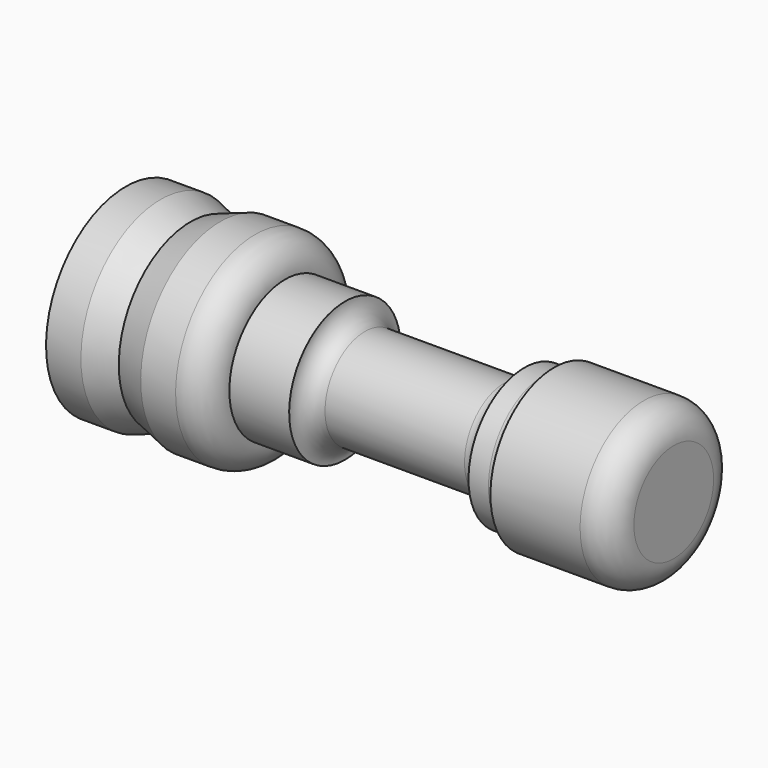
from build123d import *


with BuildPart() as f1:
    # F0 (on Front) → F1 (revolve)
    with BuildSketch(Plane.XZ):
        with BuildLine():
            Line((24.593491, 0), (-30.406509, 0))
            Line((-30.406509, 0), (-30.406509, -10))
            Line((-30.406509, -10), (-26.906509, -10))
            Line((-26.906509, -10), (-23.906509, -9))
            Line((-23.906509, -9), (-20.906509, -10))
            Line((-20.906509, -10), (-17.406509, -10))
            ThreePointArc((-17.406509, -10), (-15.285188, -9.12132), (-14.406509, -7))
            Line((-14.406509, -7), (-8.406509, -7))
            ThreePointArc((-8.406509, -7), (-7.820722, -5.585786), (-6.406509, -5))
            Line((-6.406509, -5), (7.593491, -5))
            ThreePointArc((7.593491, -5), (9.007705, -5.585786), (9.593491, -7))
            Line((9.593491, -7), (11.593491, -7))
            ThreePointArc((11.593491, -7), (12.300598, -7.292893), (12.593491, -8))
            Line((12.593491, -8), (21.593491, -8))
            ThreePointArc((21.593491, -8), (23.714812, -7.12132), (24.593491, -5))
            Line((24.593491, -5), (24.593491, 0))
        make_face()
    revolve(axis=Axis((-6.507756, 0, 0), (1, 0, 0)))


solid = f1.part
